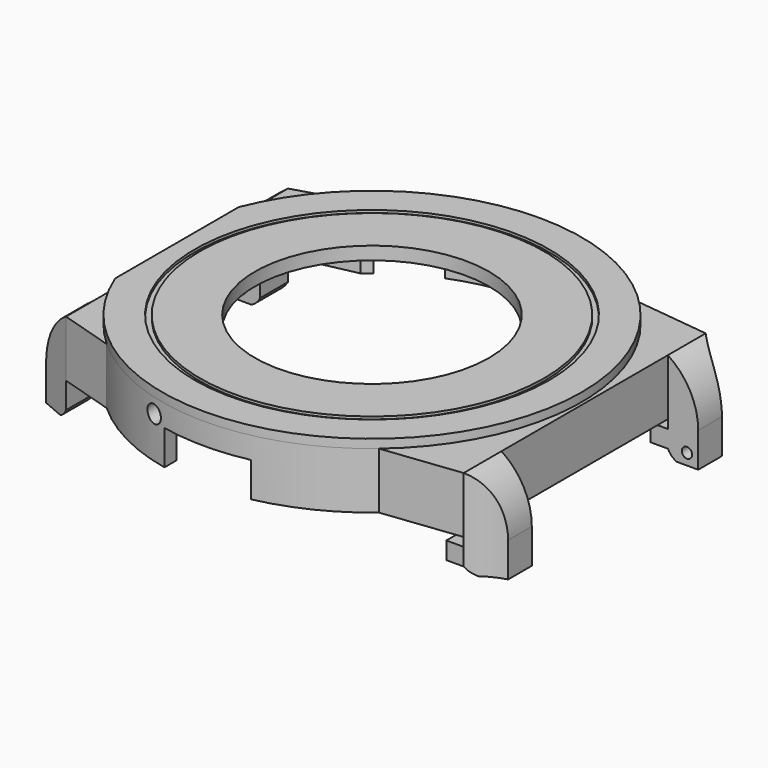
from build123d import *

# Parameters (mm, degrees)
PAD_DEPTH            = 6.5
POCKET_DEPTH         = 6
SKETCH002_R          = 13.5
POCKET001_DEPTH      = 1
SKETCH003_W          = 5.45
SKETCH003_H          = 6.5
PAD001_DEPTH         = 3.5
POCKET002_DEPTH      = 10
SKETCH010_W          = 4
SKETCH010_H          = 6.5
PAD002_DEPTH         = 3.5
POCKET005_DEPTH      = 10
SKETCH015_R          = 2.2
SKETCH015_R_2        = 1.025
PAD003_DEPTH         = 2
POCKET009_DEPTH      = 4
POCKET010_DEPTH      = 4
PAD004_DEPTH         = 4
POCKET013_DEPTH      = 12.201
POCKET013_DEPTH_BACK = 36.201
SKETCH022_R          = 0.6
POCKET014_DEPTH      = 2
SKETCH023_R          = 0.6
POCKET015_DEPTH      = 2
SKETCH024_R          = 13.5
PAD005_DEPTH         = 1
SKETCH025_R          = 20.45
SKETCH025_R_2        = 19.85
POCKET016_DEPTH      = 0.3
SKETCH026_R          = 1
POCKET017_DEPTH      = 5
SKETCH027_W          = 5.4500000001
SKETCH027_H          = 2
SKETCH027_W_2        = 5.45
PAD006_DEPTH         = 2


with BuildPart() as part:
    # Sketch → Pad (new body)
    with BuildSketch(Plane.XY):
        with BuildLine():
            Line((-22.5019915649, 16), (-22.5019915649, -16))
            Line((-22.5019915649, -16), (-16.2858834578, -17.9))
            ThreePointArc((-16.2858834578, -17.9), (-0.4552796053, -24.1957169863), (15.6009615088, -18.5))
            Line((15.6009615088, -18.5), (24.5395016581, -17.45))
            Line((24.5395016581, 17.45), (24.5395016581, -17.45))
            Line((15.6009615088, 18.5), (24.5395016581, 17.45))
            ThreePointArc((15.6009615088, 18.5), (-0.4552796053, 24.1957169863), (-16.2858834578, 17.9))
            Line((-22.5019915649, 16), (-16.2858834578, 17.9))
        make_face()
    extrude(amount=PAD_DEPTH)

    # Sketch001 → Pocket (cut)
    with BuildSketch(Plane.XY):
        with BuildLine():
            Line((-14.8539557021, 16.9), (-21.2122180433, 15.55))
            Line((-21.2122180433, 15.55), (-21.2122180433, -15.55))
            Line((-21.2122180433, -15.55), (-14.8539557021, -16.9))
            ThreePointArc((-14.8539557021, -16.9), (-0.0760301383, -22.4998715423), (14.739402973, -17))
            Line((14.739402973, -17), (23.6191552218, -16.4))
            Line((23.6191552218, 16.4), (23.6191552218, -16.4))
            Line((14.739402973, 17), (23.6191552218, 16.4))
            ThreePointArc((14.739402973, 17), (-0.0760301383, 22.4998715423), (-14.8539557021, 16.9))
        make_face()
    extrude(amount=POCKET_DEPTH, mode=Mode.SUBTRACT)

    # Sketch002 (on Face19 of Pocket) → Pocket001 (cut)
    with BuildSketch(Plane(origin=(0, 0, 6), x_dir=(1, 0, 0), z_dir=(0, 0, -1))):
        Circle(SKETCH002_R)
    extrude(amount=-POCKET001_DEPTH, mode=Mode.SUBTRACT)

    # Sketch003 (on Face7 of Pad) → Pad001 (join)
    with BuildSketch(Plane.YZ.offset(24.5395016581)):
        with Locations((-14.725, 3.25)):
            Rectangle(SKETCH003_W, SKETCH003_H)
        with Locations((14.725, 3.25)):
            Rectangle(SKETCH003_W, SKETCH003_H)
    extrude(amount=PAD001_DEPTH)

    # Sketch006 (on Face22 of Pad001) → Pocket002 (cut)
    with BuildSketch(Plane.XY.offset(6.5)):
        with BuildLine():
            ThreePointArc((24.5395016581, 17.45), (26.1592830786, 16.2095505764), (28.0395016581, 15.4176006311))
            Line((28.0395016581, 17.45), (28.0395016581, 15.4176006311))
            Line((28.0395016581, 17.45), (24.5395016581, 17.45))
        make_face()
        with BuildLine():
            ThreePointArc((28.0395016581, -15.4176006311), (26.1592830786, -16.2095505765), (24.5395016581, -17.4500000001))
            Line((28.0395016581, -17.45), (24.5395016581, -17.4500000001))
            Line((28.0395016581, -15.4176006311), (28.0395016581, -17.45))
        make_face()
    extrude(amount=-POCKET002_DEPTH, mode=Mode.SUBTRACT)

    # Sketch010 (on Face3 of Pad) → Pad002 (join)
    with BuildSketch(Plane(origin=(-22.5019915649, 0, 0), x_dir=(0, -1, 0), z_dir=(-1, 0, 0))):
        with Locations((-14, 3.25)):
            Rectangle(SKETCH010_W, SKETCH010_H)
        with Locations((14, 3.25)):
            Rectangle(SKETCH010_W, SKETCH010_H)
    extrude(amount=PAD002_DEPTH)

    # Sketch011 (on Face28 of Pad002) → Pocket005 (cut)
    with BuildSketch(Plane.XY.offset(6.5)):
        Polygon((-26.0019915649, 16), (-22.5019915649, 16), (-26.0019915649, 14.5), align=None)
        Polygon((-22.5019915649, -16), (-26.0019915649, -14.5), (-26.0019915649, -16), align=None)
    extrude(amount=-POCKET005_DEPTH, mode=Mode.SUBTRACT)

    # Sketch015 (on Face19 of Pocket) → Pad003 (join)
    with BuildSketch(Plane(origin=(0, 0, 6), x_dir=(1, 0, 0), z_dir=(0, 0, -1))):
        with Locations((-18.42, 13.32)):
            Circle(SKETCH015_R)
        with Locations((-18.42, 13.32)):
            Circle(SKETCH015_R_2, mode=Mode.SUBTRACT)
        with Locations((7.27, 18.56)):
            Circle(SKETCH015_R)
        with Locations((7.27, 18.56)):
            Circle(SKETCH015_R_2, mode=Mode.SUBTRACT)
        with Locations((5.37, -19.79)):
            Circle(SKETCH015_R)
        with Locations((5.37, -19.79)):
            Circle(SKETCH015_R_2, mode=Mode.SUBTRACT)
        with Locations((-18.42, -13.32)):
            Circle(SKETCH015_R)
        with Locations((-18.42, -13.32)):
            Circle(SKETCH015_R_2, mode=Mode.SUBTRACT)
    extrude(amount=PAD003_DEPTH)

    # Sketch016 (on Face4 of Pocket) → Pocket009 (cut)
    with BuildSketch(Plane(origin=(0, 0, 0), x_dir=(1, 0, 0), z_dir=(0, 0, -1))):
        with BuildLine():
            Line((-4.9992330338, 23.6779996848), (-5.0007669662, 21.9372361465))
            ThreePointArc((5.0007669662, 21.9372361465), (0, 22.5), (-5.0007669662, 21.9372361465))
            Line((5.0007669662, 23.6776757675), (5.0007669662, 21.9372361465))
            ThreePointArc((5.0007669662, 23.6776757675), (0.00078388, 24.1999999873), (-4.9992330338, 23.6779996848))
        make_face()
    extrude(amount=-POCKET009_DEPTH, mode=Mode.SUBTRACT)

    # Sketch017 (on Face4 of Pocket) → Pocket010 (cut)
    with BuildSketch(Plane(origin=(0, 0, 0), x_dir=(1, 0, 0), z_dir=(0, 0, -1))):
        with BuildLine():
            ThreePointArc((-3.2541322314, -22.2634369184), (0, -22.5), (3.2541322314, -22.2634369184))
            Line((3.2541322314, -22.2634369184), (3.5, -23.9455632634))
            ThreePointArc((-3.5, -23.9455632634), (0, -24.2), (3.5, -23.9455632634))
            Line((-3.2541322314, -22.2634369184), (-3.5, -23.9455632634))
        make_face()
        with BuildLine():
            ThreePointArc((-13.9498796389, -17.6536358312), (-11.25, -19.4855715851), (-8.3135572795, -20.9077680626))
            Line((-8.3135572795, -20.9077680626), (-8.9416927184, -22.487466094))
            ThreePointArc((-15.0038705449, -18.987466094), (-12.1, -20.9578147716), (-8.9416927184, -22.487466094))
            Line((-13.9498796389, -17.6536358312), (-15.0038705449, -18.987466094))
        make_face()
        with BuildLine():
            ThreePointArc((8.3135572795, -20.9077680626), (11.25, -19.4855715851), (13.9498796389, -17.6536358312))
            Line((13.9498796389, -17.6536358312), (15.0038705449, -18.987466094))
            ThreePointArc((8.9416927184, -22.487466094), (12.1, -20.9578147716), (15.0038705449, -18.987466094))
            Line((8.3135572795, -20.9077680626), (8.9416927184, -22.487466094))
        make_face()
    extrude(amount=-POCKET010_DEPTH, mode=Mode.SUBTRACT)

    # Sketch018 (on Face8 of Pocket005) → Pad004 (join)
    with BuildSketch(Plane(origin=(0, 0, 0), x_dir=(1, 0, 0), z_dir=(0, 0, -1))):
        Polygon((-26.0019915649, 14.5), (-26.0019915649, 12), (-22.5019915649, 12), (-22.5019915649, 16), align=None)
        Polygon((-26.0019915649, -12), (-22.5019915649, -12), (-22.5019915649, -16), (-26.0019915649, -14.5), align=None)
        with BuildLine():
            Line((24.5395016581, 17.4500000001), (24.5395016581, 12))
            Line((28.0395016581, 12), (24.5395016581, 12))
            Line((28.0395016581, 15.4176006311), (28.0395016581, 12))
            ThreePointArc((24.5395016581, 17.4500000001), (26.1592830786, 16.2095505765), (28.0395016581, 15.4176006311))
        make_face()
        with BuildLine():
            Line((24.5395016581, -12), (24.5395016581, -17.45))
            ThreePointArc((28.0395016581, -15.4176006311), (26.1592830786, -16.2095505764), (24.5395016581, -17.45))
            Line((28.0395016581, -12), (28.0395016581, -15.4176006311))
            Line((24.5395016581, -12), (28.0395016581, -12))
        make_face()
    extrude(amount=PAD004_DEPTH)

    # Sketch021 (on Face50 of Pad004) → Pocket013 (cut, two sides)
    with BuildSketch(Plane(origin=(0, -12, 0), x_dir=(-1, 0, 0), z_dir=(0, 1, 0))) as pocket013_sk:
        with BuildLine():
            Line((-24.5395016581, -4), (-24.5395016581, -3))
            ThreePointArc((-25.5395016581, -4), (-24.958362828, -3.5811388301), (-24.5395016581, -3))
            Line((-24.5395016581, -4), (-25.5395016581, -4))
        make_face()
        with BuildLine():
            Line((22.5019915649, -4), (22.5019915649, -3))
            ThreePointArc((22.5019915649, -3), (22.9208527349, -3.5811388301), (23.5019915649, -4))
            Line((22.5019915649, -4), (23.5019915649, -4))
        make_face()
        with BuildLine():
            Line((-28.0395016581, 0), (-28.0395016581, 6.5))
            Line((-28.0395016581, 6.5), (-24.5395016581, 6.5))
            ThreePointArc((-24.5395016581, 6.5), (-27.1088837932, 3.6912057651), (-28.0395016581, 0))
        make_face()
        with BuildLine():
            Line((26.0019915649, 6.5), (26.0019915649, 0))
            ThreePointArc((26.0019915649, 0), (25.0713737, 3.6912057651), (22.5019915649, 6.5))
            Line((26.0019915649, 6.5), (22.5019915649, 6.5))
        make_face()
    extrude(amount=-POCKET013_DEPTH, mode=Mode.SUBTRACT)
    extrude(pocket013_sk.sketch, amount=POCKET013_DEPTH_BACK, mode=Mode.SUBTRACT)

    # Sketch022 (on Face66 of Pocket013) → Pocket014 (cut)
    with BuildSketch(Plane.XZ.offset(-12)):
        with Locations((-24.7019915649, -2.7)):
            Circle(SKETCH022_R)
        with Locations((26.7395016581, -2.7)):
            Circle(SKETCH022_R)
    extrude(amount=-POCKET014_DEPTH, mode=Mode.SUBTRACT)

    # Sketch023 (on Face49 of Pocket014) → Pocket015 (cut)
    with BuildSketch(Plane(origin=(0, -12, 0), x_dir=(-1, 0, 0), z_dir=(0, 1, 0))):
        with Locations((-26.7395016581, -2.7)):
            Circle(SKETCH023_R)
        with Locations((24.7019915649, -2.7)):
            Circle(SKETCH023_R)
    extrude(amount=-POCKET015_DEPTH, mode=Mode.SUBTRACT)

    # Sketch024 (on Face16 of Pocket015) → Pad005 (join)
    with BuildSketch(Plane.XY.offset(6.5)):
        with BuildLine():
            ThreePointArc((-22.5019915649, -8.9050758341), (24.2, 0), (-22.5019915649, 8.9050758341))
            Line((-22.5019915649, 8.9050758341), (-22.5019915649, -8.9050758341))
        make_face()
        Circle(SKETCH024_R, mode=Mode.SUBTRACT)
    extrude(amount=PAD005_DEPTH)

    # Sketch025 (on Face42 of Pad005) → Pocket016 (cut)
    with BuildSketch(Plane.XY.offset(7.5)):
        Circle(SKETCH025_R)
        Circle(SKETCH025_R_2, mode=Mode.SUBTRACT)
    extrude(amount=-POCKET016_DEPTH, mode=Mode.SUBTRACT)

    # Sketch026 (on DatumPlane) → Pocket017 (cut)
    with BuildSketch(Plane.XZ.offset(25)):
        with Locations((-6.5, 4.8)):
            Circle(SKETCH026_R)
    extrude(amount=-POCKET017_DEPTH, mode=Mode.SUBTRACT)

    # Sketch027 (on Face18 of Pocket017) → Pad006 (join)
    with BuildSketch(Plane(origin=(24.5395016581, 0, 0), x_dir=(0, -1, 0), z_dir=(-1, 0, 0))):
        with Locations((14.7250000001, -2)):
            Rectangle(SKETCH027_W, SKETCH027_H)
        with Locations((-14.725, -2)):
            Rectangle(SKETCH027_W_2, SKETCH027_H)
    extrude(amount=PAD006_DEPTH)


solid = part.part
